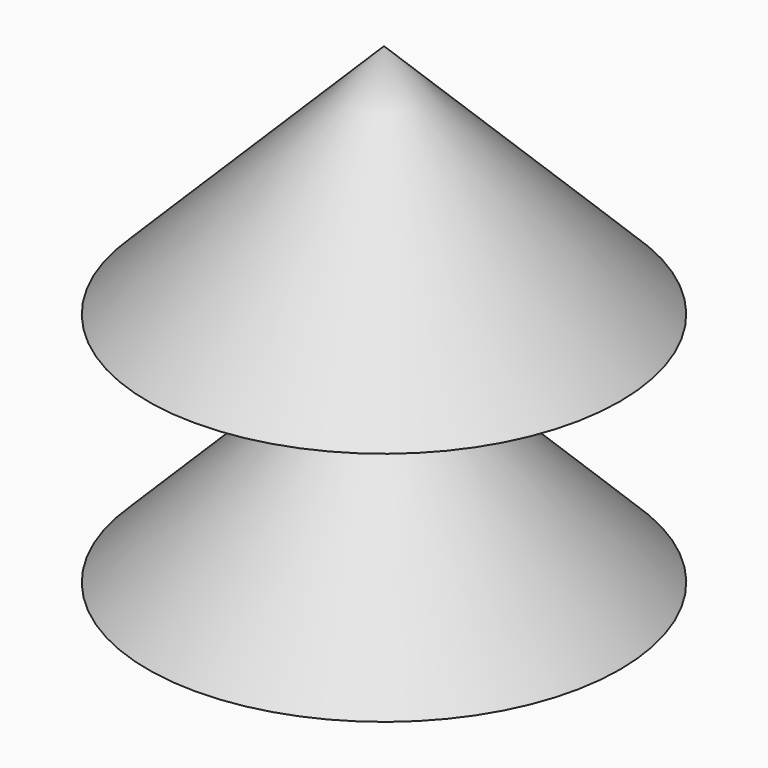
from build123d import *

# Parameters (mm, degrees)
F0_R     = 30
F1_DEPTH = 30
F1_TAPER = 45
F3_R     = 30
F4_DEPTH = 30
F4_TAPER = 45


with BuildPart() as f1:
    # F0 (on Top) → F1 (new body)
    with BuildSketch(Plane.XY):
        Circle(F0_R)
    extrude(amount=F1_DEPTH, taper=F1_TAPER)

    # F3 (on offset) → F4 (join)
    with BuildSketch(Plane.XY.offset(30)):
        Circle(F3_R)
    extrude(amount=F4_DEPTH, taper=F4_TAPER)


solid = f1.part
